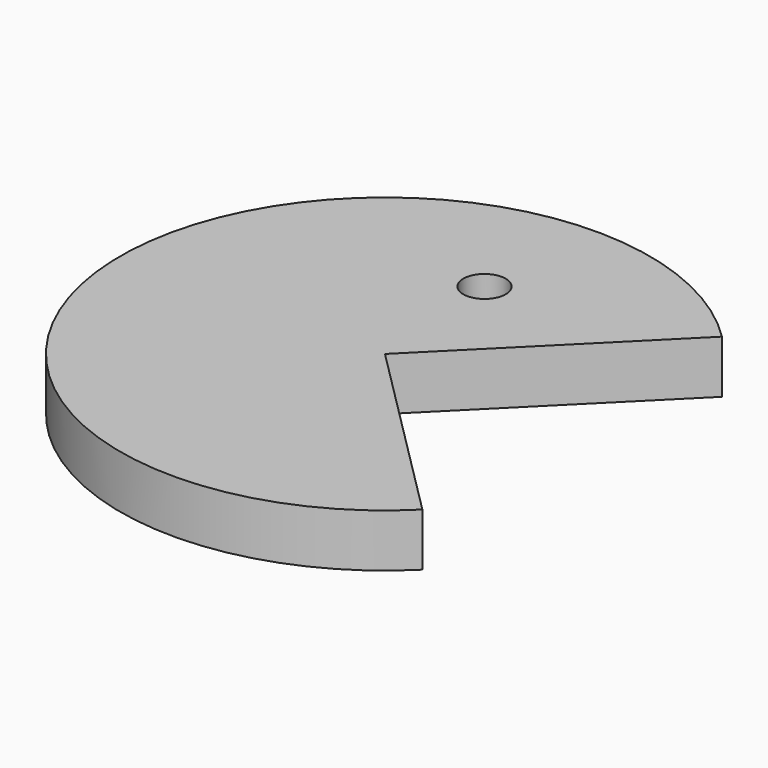
from build123d import *

# Parameters (mm, degrees)
CYLINDER001_R            = 2
CYLINDER001_DEPTH        = 10
CYLINDER_W               = 25
CYLINDER_H               = 5
CYLINDER_ANGLE           = 270
CYLINDER_PLACEMENT_ANGLE = 45


with BuildPart() as cylinder:
    # Cylinder001 → Cylinder001 (new body)
    with BuildSketch(Plane(origin=(-1, 13, 0), x_dir=(1, 0, 0), z_dir=(0, 0, 1))):
        Circle(CYLINDER001_R)
    extrude(amount=CYLINDER001_DEPTH)


with BuildPart() as pac_man:
    # Cylinder → Cylinder (revolve)
    with BuildSketch(Plane.XZ):
        with Locations((12.5, 2.5)):
            Rectangle(CYLINDER_W, CYLINDER_H)
    revolve(axis=Axis((0, 0, 0), (0, 0, 1)), revolution_arc=CYLINDER_ANGLE)


with BuildPart() as pac_man_1:
    # Cylinder placement: moved
    add(pac_man.part.rotate(Axis((0, 0, 0), (0, 0, 1)), CYLINDER_PLACEMENT_ANGLE))

    # Cut: cut Cylinder
    add(cylinder.part, mode=Mode.SUBTRACT)


solid = pac_man_1.part
